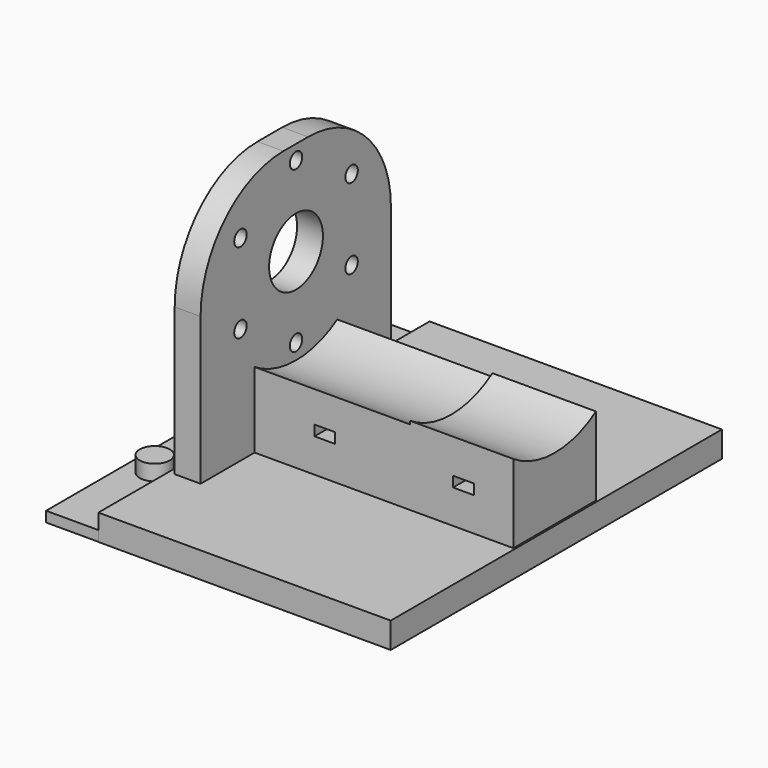
from build123d import *

# Parameters (mm, degrees)
F1_DEPTH  = 2
F2_R      = 2.9
F3_DEPTH  = 3
F5_W      = 56.5
F5_H      = 80
F6_DEPTH  = 5
F8_W      = 45.9754448384
F8_H      = 48.4524751604
F8_R      = 1.5
F8_R_2    = 6.5
F9_DEPTH  = 5
F11_DEPTH = 50
F12_R     = 18.5
F12_R_2   = 17.5
F13_DEPTH = 30
F14_R     = 20
F15_W     = 4
F15_H     = 2
F16_DEPTH = 25


with BuildPart() as f1:
    # F0 (on Top) → F1 (new body)
    with BuildSketch(Plane.XY):
        Polygon((-41.298494786, -40), (-31.298494786, -40), (-29.298494786, -40), (-29.298494786, 40), (-31.298494786, 40), (-41.298494786, 40), align=None)
    extrude(amount=F1_DEPTH)

    # F4: F3 across plane


with BuildPart() as f3:
    # F2 (on face) → F3 (new body)
    with BuildSketch(Plane.XY.offset(2)):
        with Locations((-36.298494786, -20)):
            Circle(F2_R)
    extrude(amount=F3_DEPTH)


with BuildPart() as f1_1:
    add(f1.part)
    add(f3.part.mirror(Plane.XZ))


    add(f3.part)  # F6 merges F3
    # F5 (on Top) → F6 (join)
    with BuildSketch(Plane.XY):
        with Locations((-2.911294505, -0.0439426303)):
            Rectangle(F5_W, F5_H)
    extrude(amount=F6_DEPTH)


with BuildPart() as f9:
    # F8 (on offset) → F9 (new body)
    with BuildSketch(Plane.YZ.offset(-30)):
        with Locations((-0.063222833, 29.2262375802)):
            Rectangle(F8_W, F8_H)
        with Locations((-13.4233937587, 27.3952950446)):
            Circle(F8_R, mode=Mode.SUBTRACT)
        with Locations((0, 19.6452950446)):
            Circle(F8_R, mode=Mode.SUBTRACT)
        with Locations((13.4233937587, 27.3952950446)):
            Circle(F8_R, mode=Mode.SUBTRACT)
        with Locations((-13.4233937587, 42.8952950446)):
            Circle(F8_R, mode=Mode.SUBTRACT)
        with Locations((0, 35.1452950446)):
            Circle(F8_R_2, mode=Mode.SUBTRACT)
        with Locations((0, 50.6452950446)):
            Circle(F8_R, mode=Mode.SUBTRACT)
        with Locations((13.4233937587, 42.8952950446)):
            Circle(F8_R, mode=Mode.SUBTRACT)
    extrude(amount=F9_DEPTH)

    # F14
    f14_edges = [f9.edges().sort_by_distance(p)[0] for p in [
        (-27.5, 22.9245, 53.452475),
        (-27.5, -23.050945, 53.452475),
    ]]
    fillet(f14_edges, radius=F14_R)


with BuildPart() as f11:
    # F10 (on face) → F11 (new body)
    with BuildSketch(Plane.YZ.offset(-25)):
        with BuildLine():
            Line((-10, 20.1786654975), (-10, 5))
            Line((-10, 5), (9.9560573697, 5))
            Line((9.9560573697, 5), (9.9560573697, 20.1493982174))
            ThreePointArc((9.9560573697, 20.1493982174), (-0.0263985248, 17.1453144024), (-10, 20.1786654975))
        make_face()
    extrude(amount=F11_DEPTH)

    # F12 (on face) → F13 (cut)
    with BuildSketch(Plane.YZ.offset(-25)):
        with Locations((0, 35.124)):
            Circle(F12_R)
        with Locations((0, 35.124)):
            Circle(F12_R_2, mode=Mode.SUBTRACT)
    extrude(amount=F13_DEPTH, mode=Mode.SUBTRACT)

    # F15 (on face) → F16 (cut)
    with BuildSketch(Plane.XZ.offset(10)):
        with Locations((-11.4235027209, 12.5306526423)):
            Rectangle(F15_W, F15_H)
        with Locations((15.3525347337, 12.5306526423)):
            Rectangle(F15_W, F15_H)
    extrude(amount=-F16_DEPTH, mode=Mode.SUBTRACT)


solid = Compound([f1_1.part, f9.part, f11.part])
